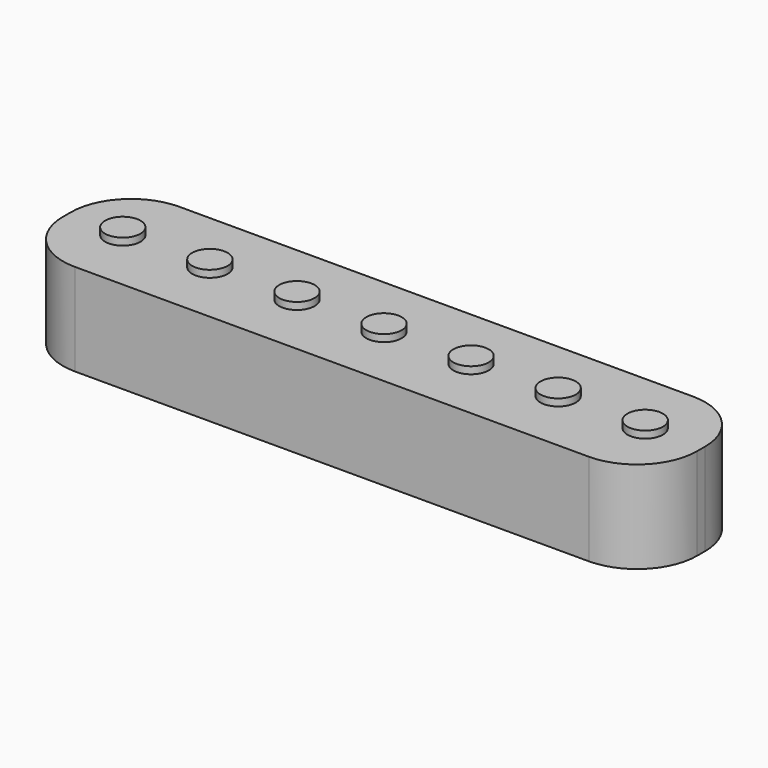
from build123d import *

# Parameters (mm, degrees)
F0_R     = 2.5
F1_DEPTH = 13
F2_DEPTH = 14


with BuildPart() as f1:
    # F0 (on Top) → F1 (new body)
    with BuildSketch(Plane.XY):
        with BuildLine():
            Line((36.275, 9.2), (-36.275, 9.2))
            ThreePointArc((-36.275, 9.2), (-42.285408, 6.710408), (-44.775, 0.7))
            Line((-44.775, 0.7), (-44.775, -0.7))
            ThreePointArc((-44.775, -0.7), (-42.285408, -6.710408), (-36.275, -9.2))
            Line((-36.275, -9.2), (36.275, -9.2))
            ThreePointArc((36.275, -9.2), (42.285408, -6.710408), (44.775, -0.7))
            Line((44.775, -0.7), (44.775, 0.7))
            ThreePointArc((44.775, 0.7), (42.285408, 6.710408), (36.275, 9.2))
        make_face()
        with Locations((-36.875, 0)):
            Circle(F0_R, mode=Mode.SUBTRACT)
        with Locations((-24.583333, 0)):
            Circle(F0_R, mode=Mode.SUBTRACT)
        with Locations((-12.291667, 0)):
            Circle(F0_R, mode=Mode.SUBTRACT)
        Circle(F0_R, mode=Mode.SUBTRACT)
        with Locations((12.291667, 0)):
            Circle(F0_R, mode=Mode.SUBTRACT)
        with Locations((24.583333, 0)):
            Circle(F0_R, mode=Mode.SUBTRACT)
        with Locations((36.875, 0)):
            Circle(F0_R, mode=Mode.SUBTRACT)
    extrude(amount=F1_DEPTH)

    # F0 (on Top) → F2 (join)
    with BuildSketch(Plane.XY):
        with Locations((-36.875, 0)):
            Circle(F0_R)
        with Locations((-24.583333, 0)):
            Circle(F0_R)
        with Locations((-12.291667, 0)):
            Circle(F0_R)
        Circle(F0_R)
        with Locations((12.291667, 0)):
            Circle(F0_R)
        with Locations((36.875, 0)):
            Circle(F0_R)
        with Locations((24.583333, 0)):
            Circle(F0_R)
    extrude(amount=F2_DEPTH)


solid = f1.part
